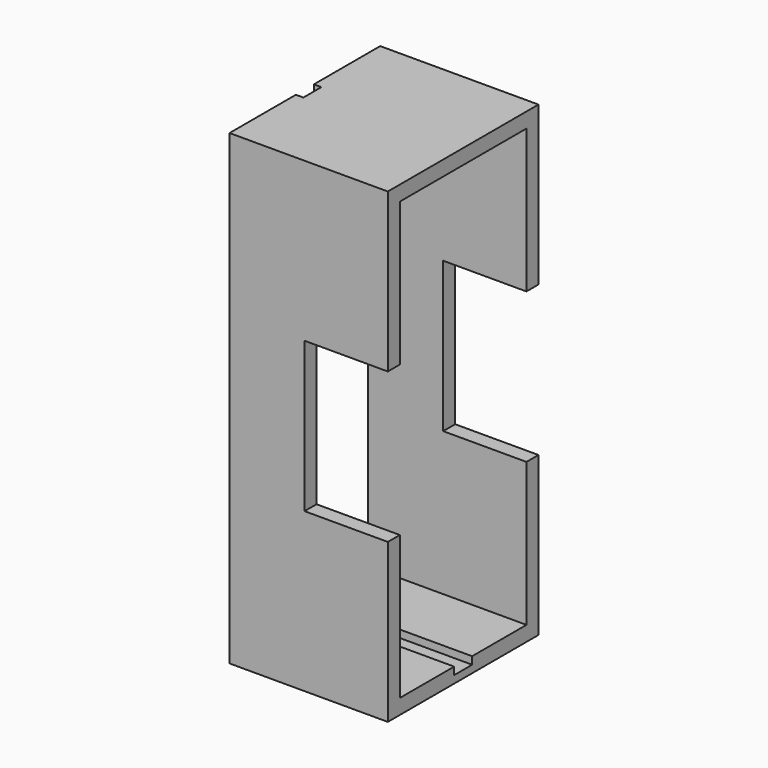
from build123d import *

# Parameters (mm, degrees)
F0_W           = 21.1
F0_H           = 25.1
F1_DEPTH       = 62.25
F2_W           = 21.1
F2_H           = 58.25
F3_DEPTH       = 25.4
F3_DEPTH_BACK  = 25.4
F4_W           = 3
F4_H           = 2
F5_DEPTH       = 25.4
F5_DEPTH_BACK  = 25.4
F6_W           = 25.1
F6_H           = 20
F7_DEPTH       = 11.1
F8_W           = 1
F8_H           = 3
F9_DEPTH       = 25.4
F9_DEPTH_BACK  = 25.4
F10_W          = 1
F10_H          = 3
F11_DEPTH      = 25.4
F11_DEPTH_BACK = 25.4


with BuildPart() as f1:
    # F0 (on Top) → F1 (new body)
    with BuildSketch(Plane.XY):
        with Locations((0.971473, 0)):
            Rectangle(F0_W, F0_H)
    extrude(amount=F1_DEPTH)

    # F2 (on face) → F3 (cut, two sides)
    with BuildSketch(Plane.YZ.offset(11.521473)) as f3_sk:
        with Locations((0, 31.125)):
            Rectangle(F2_W, F2_H)
    extrude(amount=-F3_DEPTH, mode=Mode.SUBTRACT)
    extrude(f3_sk.sketch, amount=-F3_DEPTH_BACK, mode=Mode.SUBTRACT)

    # F4 (on face) → F5 (cut, two sides)
    with BuildSketch(Plane.YZ.offset(11.521473)) as f5_sk:
        with Locations((0, 2)):
            Rectangle(F4_W, F4_H)
    extrude(amount=-F5_DEPTH, mode=Mode.SUBTRACT)
    extrude(f5_sk.sketch, amount=-F5_DEPTH_BACK, mode=Mode.SUBTRACT)

    # F6 (on face) → F7 (cut)
    with BuildSketch(Plane.YZ.offset(11.521473)):
        with Locations((0, 31.125)):
            Rectangle(F6_W, F6_H)
        with Locations((0, 31.125)):
            Rectangle(F6_W, F6_H)
    extrude(amount=-F7_DEPTH, mode=Mode.SUBTRACT)

    # F8 (on face) → F9 (cut, two sides)
    with BuildSketch(Plane(origin=(0, 0, 0), x_dir=(1, 0, 0), z_dir=(0, 0, -1))) as f9_sk:
        with Locations((-9.078527, 0)):
            Rectangle(F8_W, F8_H)
    extrude(amount=-F9_DEPTH, mode=Mode.SUBTRACT)
    extrude(f9_sk.sketch, amount=-F9_DEPTH_BACK, mode=Mode.SUBTRACT)

    # F10 (on face) → F11 (cut, two sides)
    with BuildSketch(Plane(origin=(0, 0, 60.25), x_dir=(1, 0, 0), z_dir=(0, 0, -1))) as f11_sk:
        with Locations((-9.078527, 0)):
            Rectangle(F10_W, F10_H)
    extrude(amount=-F11_DEPTH, mode=Mode.SUBTRACT)
    extrude(f11_sk.sketch, amount=-F11_DEPTH_BACK, mode=Mode.SUBTRACT)


with BuildPart() as f12_1:
    # F12: copy of F1
    add(f1.part)


solid = f1.part
